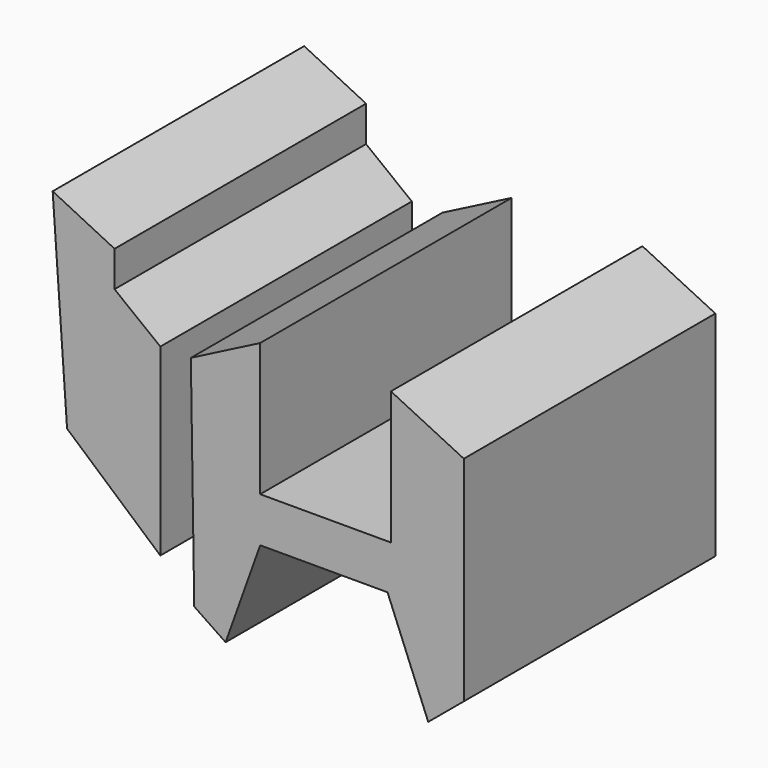
from build123d import *

# Parameters (mm, degrees)
F1_DEPTH = 25


with BuildPart() as f1:
    # F0 (on Front) → F1 (new body)
    with BuildSketch(Plane.XZ):
        Polygon((-11.580393, 9.596894), (-16.501553, 12.023768), (-15.355529, -4.222804), (-7.940082, -10.694468), (-7.940082, 3.934189), (-11.580393, 6.765542), align=None)
        Polygon((0, 6.765542), (-5.513208, 3.934189), (-5.243555, -13.390995), (-2.749267, -15.076324), (0, -7.391223), (10.126648, -7.391223), (13.362479, -15.41339), (16.193833, -13.053929), (16.193833, 3.934189), (10.3963, 6.765542), (10.3963, -3.818326), (0, -3.818326), align=None)
    extrude(amount=F1_DEPTH)


solid = f1.part
